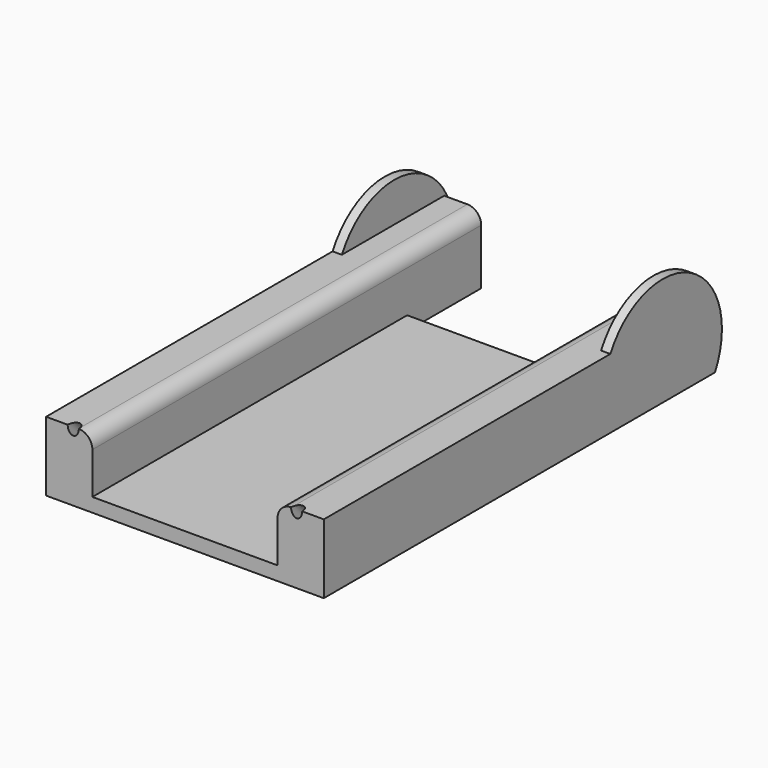
from build123d import *

# Parameters (mm, degrees)
F2_DEPTH       = 100
F2_DEPTH_BACK  = 20
F1_R           = 1
F4_DEPTH       = 15
F4_DEPTH_BACK  = 90
F6_R           = 16
F7_DEPTH       = 2
F8_R           = 16
F9_DEPTH       = 2
F11_DEPTH      = 10
F12_R          = 1.2
F13_DEPTH      = 124.25
F13_DEPTH_BACK = 109.5
F14_W          = 125.272244215
F14_H          = 20.9059882909
F15_DEPTH      = 40


with BuildPart() as f2:
    # F1 (on face) → F2 (new body, two sides)
    with BuildSketch(Plane(origin=(0, 0, 0), x_dir=(1, 0, 0), z_dir=(0, -0.7071067812, 0.7071067812))) as f2_sk:
        with BuildLine():
            ThreePointArc((25.13, 0), (24.13, 1), (23.13, 0))
            ThreePointArc((23.13, 0), (24.13, -1), (25.13, 0))
        make_face()
    extrude(amount=F2_DEPTH)
    extrude(f2_sk.sketch, amount=-F2_DEPTH_BACK)



with BuildPart() as f2b:
    # F1 (on face) → F2, piece 2 (new body, two sides)
    with BuildSketch(Plane(origin=(0, 0, 0), x_dir=(1, 0, 0), z_dir=(0, -0.7071067812, 0.7071067812))) as f2_2_sk:
        with Locations((-24.13, 0)):
            Circle(F1_R)
    extrude(amount=F2_DEPTH)
    extrude(f2_2_sk.sketch, amount=-F2_DEPTH_BACK)


with BuildPart() as f2_1:
    add(f2.part)

    add(f2b.part)  # F4 merges F2b
    # F3 (on Front) → F4 (join, two sides)
    with BuildSketch(Plane.XZ) as f4_sk:
        with BuildLine():
            Line((-30, 15), (-30, 0))
            Line((-30, 0), (30, 0))
            Line((30, 0), (30, 15))
            Line((30, 15), (23, 15))
            ThreePointArc((23, 15), (20.8786796564, 14.1213203436), (20, 12))
            Line((20, 12), (20, 3))
            Line((20, 3), (-20, 3))
            Line((-20, 3), (-20, 12))
            ThreePointArc((-20, 12), (-20.8786796564, 14.1213203436), (-23, 15))
            Line((-23, 15), (-30, 15))
        make_face()
    extrude(amount=F4_DEPTH)
    extrude(f4_sk.sketch, amount=-F4_DEPTH_BACK)

    # F6 (on face) → F7 (join)
    with BuildSketch(Plane(origin=(-30, 0, 0), x_dir=(0, -1, 0), z_dir=(-1, 0, 0))):
        with Locations((-76.5, 7.5)):
            Circle(F6_R)
    extrude(amount=-F7_DEPTH)

    # F8 (on face) → F9 (join)
    with BuildSketch(Plane.YZ.offset(30)):
        with Locations((76.5, 7.5)):
            Circle(F8_R)
    extrude(amount=-F9_DEPTH)

    # F10 (on Top) → F11 (cut)
    with BuildSketch(Plane.XY):
        Polygon((20, 90), (-20, 90), (-20, 77.4333529874), (-20, 70), (20, 70), align=None)
    extrude(amount=F11_DEPTH, mode=Mode.SUBTRACT)

    # F12 (on face) → F13 (cut, two sides)
    with BuildSketch(Plane(origin=(0, 0, 0), x_dir=(1, 0, 0), z_dir=(0, -0.7071067812, 0.7071067812))) as f13_sk:
        with BuildLine():
            ThreePointArc((25.33, 0), (24.13, 1.2), (22.93, 0))
            ThreePointArc((22.93, 0), (24.13, -1.2), (25.33, 0))
        make_face()
        with Locations((-24.13, 0)):
            Circle(F12_R)
    extrude(amount=F13_DEPTH, mode=Mode.SUBTRACT)
    extrude(f13_sk.sketch, amount=-F13_DEPTH_BACK, mode=Mode.SUBTRACT)

    # F14 (on Right) → F15 (cut, symmetric)
    with BuildSketch(Plane.YZ):
        with Locations((62.6361221075, -10.4529941455)):
            Rectangle(F14_W, F14_H)
    extrude(amount=F15_DEPTH, both=True, mode=Mode.SUBTRACT)


solid = f2_1.part
